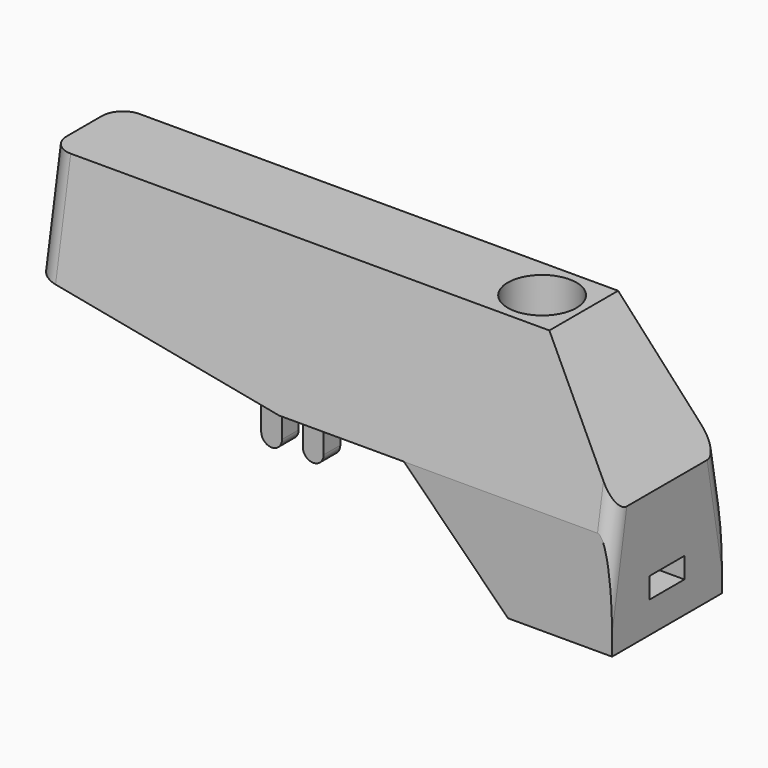
from build123d import *

# Parameters (mm, degrees)
CYLINDER_R      = 1.65
CYLINDER_DEPTH  = 30
PAD005_DEPTH    = 1.05
PAD001_DEPTH    = 3.3
POCKET004_DEPTH = 28.001
PAD002_DEPTH    = 0.5
FILLET_R        = 0.7
FILLET002_R     = 1


with BuildPart() as black_led_base:
    # Cylinder → Cylinder (join)
    with BuildSketch(Plane(origin=(-6, 0, -15), x_dir=(1, 0, 0), z_dir=(0, 0, 1))):
        Circle(CYLINDER_R)
    extrude(amount=CYLINDER_DEPTH)


with BuildPart() as obj1:
    # Sketch016 → Pad005 (new body, symmetric)
    with BuildSketch(Plane.XZ):
        Polygon((-6, 2.5), (-6, -0.5), (0, -0.5), (0, 0.5), align=None)
    extrude(amount=PAD005_DEPTH, both=True)


with BuildPart() as black_c:
    # Sketch005 → Pad001 (new body, symmetric)
    with BuildSketch(Plane.XZ):
        Polygon((0, 0), (0, -2), (-5, -2), (-10, 3), (-16, 3), (-28, 5), (-28, 10), (-4, 10), (0, 4), align=None)
    extrude(amount=PAD001_DEPTH, both=True)

    # Sketch006 → Pocket004 (cut, through all)
    with BuildSketch(Plane.YZ):
        Polygon((-3.3, 0), (-3.3, 3), (0, 21.71523), (3.3, 3), (3.3, 0), (13, 0), (13, 26), (-13, 26), (-13, 0), align=None)
    extrude(amount=-POCKET004_DEPTH, mode=Mode.SUBTRACT)

    # Sketch008 → Pad002 (join, symmetric)
    with BuildSketch(Plane.XZ.offset(2)):
        with BuildLine():
            ThreePointArc((-15.5, 1.5), (-15, 1), (-14.5, 1.5))
            Line((-14.5, 1.5), (-14.5, 3))
            ThreePointArc((-14.5, 3), (-15, 3.5), (-15.5, 3))
            Line((-15.5, 1.5), (-15.5, 3))
        make_face()
        with BuildLine():
            ThreePointArc((-16.5, 3), (-17, 3.5), (-17.5, 3))
            Line((-17.5, 3), (-17.5, 1.5))
            ThreePointArc((-17.5, 1.5), (-17, 1), (-16.5, 1.5))
            Line((-16.5, 3), (-16.5, 1.5))
        make_face()
    pad002 = extrude(amount=PAD002_DEPTH, both=True)

    # Mirrored001: Pad002 across XZ
    add(pad002.mirror(Plane.XZ))

    # Fillet
    fillet_edges = [black_c.edges().sort_by_distance(p)[0] for p in [
        (0, -3.211837, 3.5),
        (0, 3.211837, 3.5),
    ]]
    fillet(fillet_edges, radius=FILLET_R)

    # Fillet002
    fillet002_edges = [black_c.edges().sort_by_distance(p)[0] for p in [
        (-28, -2.506529, 7.5),
        (-28, 2.506529, 7.5),
    ]]
    fillet(fillet002_edges, radius=FILLET002_R)

    # Boolean001: cut black_led_BASE, obj1
    add(black_led_base.part, mode=Mode.SUBTRACT)
    add(obj1.part, mode=Mode.SUBTRACT)


with BuildPart() as black_c_1:
    # Clone008 placement: moved
    add(black_c.part.moved(Location((0, 38.25, 0))))


solid = black_c_1.part
